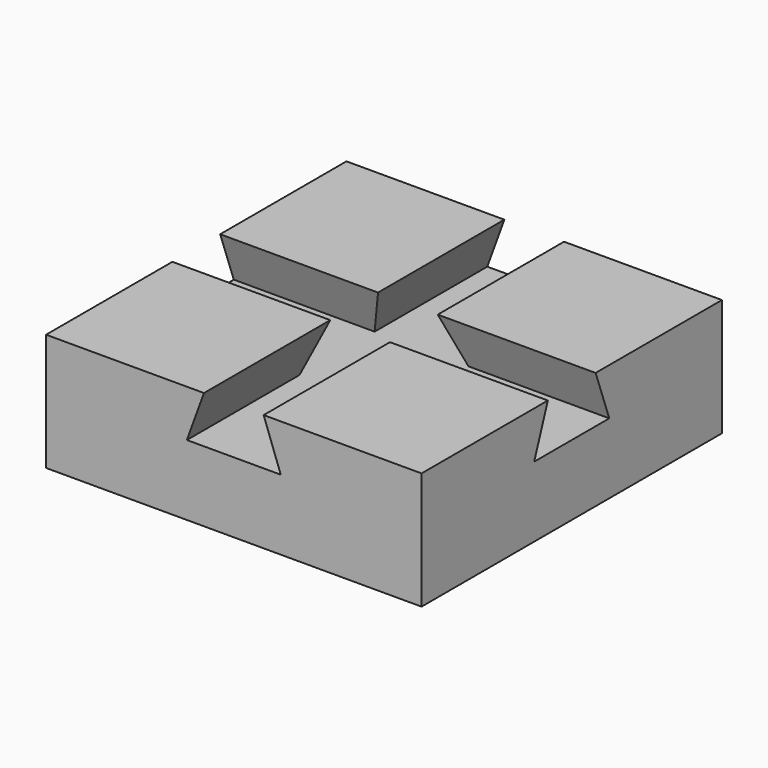
from build123d import *

# Parameters (mm, degrees)
F1_DEPTH = 80
F3_DEPTH = 80


with BuildPart() as f1:
    # F0 (on Front) → F1 (new body)
    with BuildSketch(Plane.XZ):
        Polygon((-91.362034, -2.732175), (-11.362034, -2.732175), (-11.362034, 22.267825), (-45.002034, 22.267825), (-41.362034, 12.267825), (-61.362034, 12.267825), (-57.722034, 22.267825), (-91.362034, 22.267825), align=None)
    extrude(amount=F1_DEPTH)

    # F2 (on face) → F3 (cut)
    with BuildSketch(Plane.YZ.offset(-11.362034)):
        Polygon((-46.36, 22.267825), (-50, 12.267825), (-30, 12.267825), (-33.64, 22.267825), (-40, 22.267825), align=None)
    extrude(amount=-F3_DEPTH, mode=Mode.SUBTRACT)


solid = f1.part
